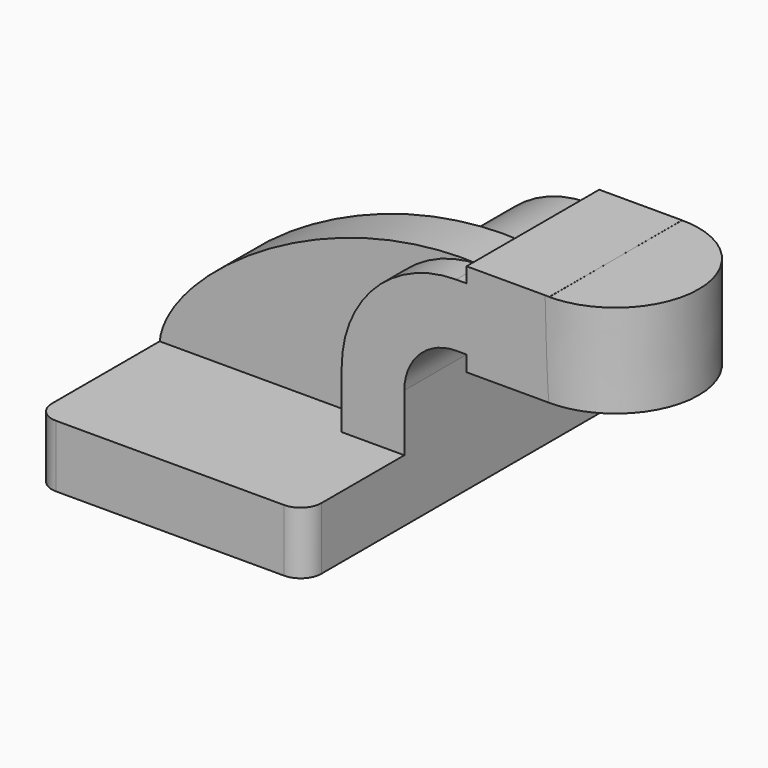
from build123d import *

# Parameters (mm, degrees)
F1_DEPTH = 63.5
F2_DEPTH = 25.4
F3_DEPTH = 15.875
F5_R     = 6.35


with BuildPart() as f1:
    # F0 (on Front) → F1 (new body, symmetric)
    with BuildSketch(Plane.XZ):
        Polygon((-41.275, -9.525), (41.275, -9.525), (41.275, 9.525), (22.098, 9.525), (-41.275, 9.525), align=None)
    extrude(amount=F1_DEPTH, both=True)

    # F0 (on Front) → F2 (join, symmetric)
    with BuildSketch(Plane.XZ):
        with BuildLine():
            Line((22.098, 9.525), (41.275, 9.525))
            Line((41.275, 9.525), (41.275, 27.0002))
            ThreePointArc((41.275, 27.0002), (45.9246798487, 38.2255201513), (57.15, 42.8752))
            Line((57.15, 42.8752), (60.325, 42.8752))
            Line((60.325, 42.8752), (60.325, 62.0522))
            Line((60.325, 62.0522), (57.15, 62.0522))
            ThreePointArc((57.15, 62.0522), (32.3644931058, 51.7857068942), (22.098, 27.0002))
            Line((22.098, 27.0002), (22.098, 9.525))
        make_face()
        Polygon((60.325, 66.675), (60.325, 62.0522), (60.325, 42.8752), (60.325, 38.1), (85.725, 38.1), (85.6915154391, 66.675), align=None)
    extrude(amount=F2_DEPTH, both=True)

    # F0 (on Front) → F3 (join)
    with BuildSketch(Plane.XZ):
        with BuildLine():
            add(Edge.make_bspline(
                [(-41.275, 9.525), (-39.1135952527, 29.6751279876), (8.2365749404, 64.628906548), (57.15, 62.0522)],
                knots=[0, 0, 0, 0, 111.5642745902, 111.5642745902, 111.5642745902, 111.5642745902], degree=3))
            Line((-41.275, 9.525), (22.098, 9.525))
            Line((22.098, 9.525), (22.098, 27.0002))
            ThreePointArc((22.098, 27.0002), (32.3644931058, 51.7857068942), (57.15, 62.0522))
        make_face()
    extrude(amount=F3_DEPTH)

    # F0 (on Front) → F4 (revolve)
    with BuildSketch(Plane.XZ):
        Polygon((111.125, 66.675), (85.6915154391, 66.675), (85.725, 38.1), (111.125, 38.1), align=None)
    revolve(axis=Axis((85.7082577195, 0, 52.3875), (-0.0011718124, 0, 0.9999993134)))

    # F5
    f5_edges = [f1.edges().sort_by_distance(p)[0] for p in [
        (-41.275, -63.5, 0),
        (41.275, -63.5, 0),
        (41.275, 63.5, 0),
        (-41.275, 63.5, 0),
    ]]
    fillet(f5_edges, radius=F5_R)


solid = f1.part
